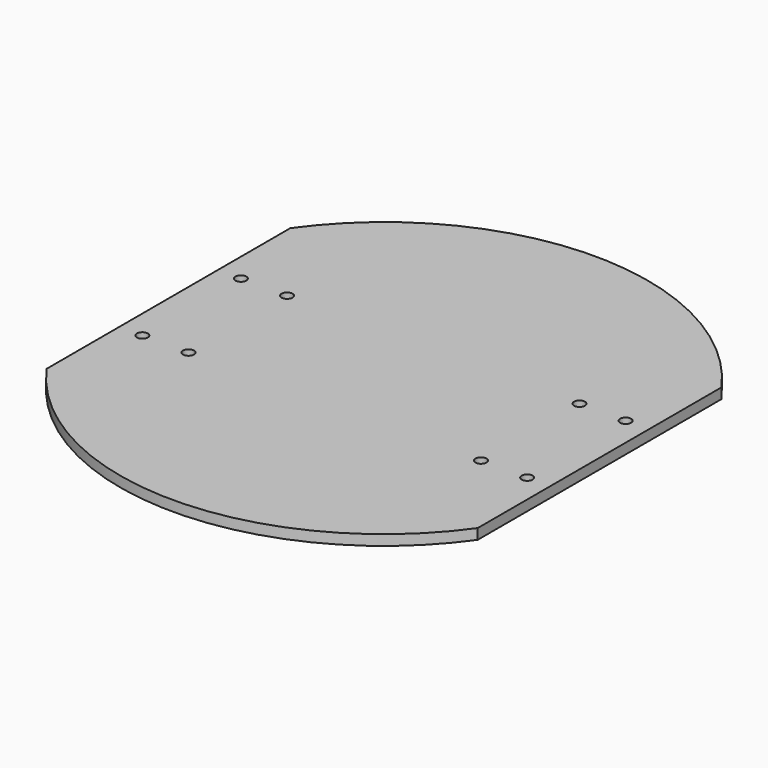
from build123d import *

# Parameters (mm, degrees)
F0_R     = 1.5875
F1_DEPTH = 2.9972


with BuildPart() as f1:
    # F0 (on Top) → F1 (new body)
    with BuildSketch(Plane.XY):
        with BuildLine():
            Line((-62.23, 43.975756), (-62.23, -43.975756))
            ThreePointArc((-62.23, -43.975756), (0, -76.2), (62.23, -43.975756))
            Line((62.23, -43.975756), (62.23, 43.975756))
            ThreePointArc((62.23, 43.975756), (0, 76.2), (-62.23, 43.975756))
        make_face()
        with Locations((-55.5498, -17.78)):
            Circle(F0_R, mode=Mode.SUBTRACT)
        with Locations((-42.2148, -17.78)):
            Circle(F0_R, mode=Mode.SUBTRACT)
        with Locations((42.2148, -17.78)):
            Circle(F0_R, mode=Mode.SUBTRACT)
        with Locations((55.5498, -17.78)):
            Circle(F0_R, mode=Mode.SUBTRACT)
        with Locations((-55.5498, 17.78)):
            Circle(F0_R, mode=Mode.SUBTRACT)
        with Locations((-42.2148, 17.78)):
            Circle(F0_R, mode=Mode.SUBTRACT)
        with Locations((42.2148, 17.78)):
            Circle(F0_R, mode=Mode.SUBTRACT)
        with Locations((55.5498, 17.78)):
            Circle(F0_R, mode=Mode.SUBTRACT)
    extrude(amount=F1_DEPTH)


solid = f1.part
